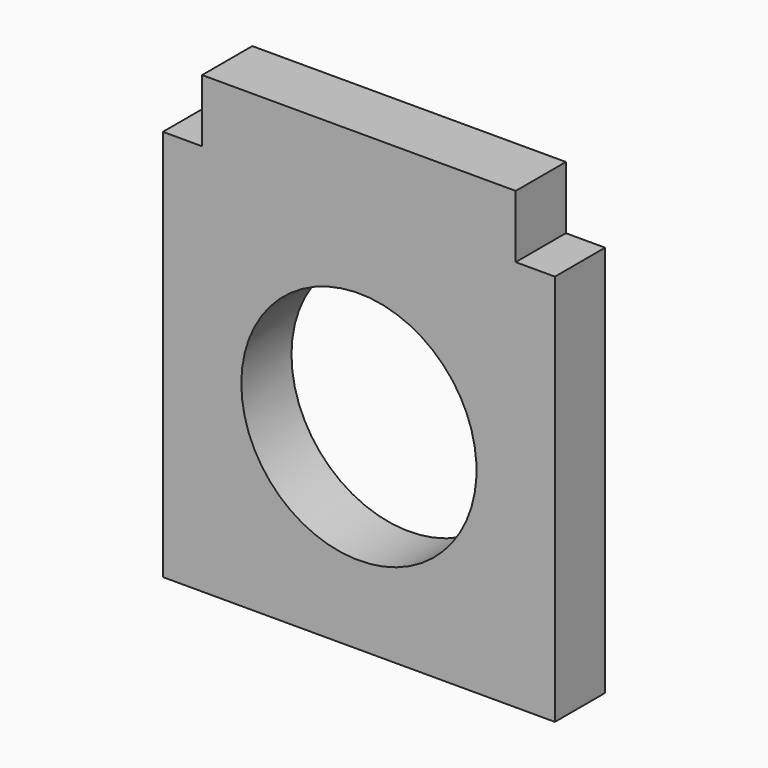
from build123d import *

# Parameters (mm, degrees)
F0_W     = 10
F0_H     = 4
F1_DEPTH = 4
F3_DEPTH = 25


with BuildPart() as f1:
    # F0 (on Front) → F1 (new body)
    with BuildSketch(Plane.XZ):
        Polygon((-12.5, 12.5), (-12.5, -12.5), (12.5, -12.5), (12.5, 12.5), (10, 12.5), (0, 12.5), (-10, 12.5), align=None)
        with Locations((-5, 14.5)):
            Rectangle(F0_W, F0_H)
        with Locations((5, 14.5)):
            Rectangle(F0_W, F0_H)
    extrude(amount=F1_DEPTH)

    # F2 (on face) → F3 (cut)
    with BuildSketch(Plane.XZ.offset(4)):
        with BuildLine():
            Line((-7.5, 0), (7.5, 0))
            ThreePointArc((7.5, 0), (0, 7.5), (-7.5, 0))
        make_face()
        with BuildLine():
            ThreePointArc((-7.5, 0), (0, -7.5), (7.5, 0))
            Line((7.5, 0), (-7.5, 0))
        make_face()
    extrude(amount=-F3_DEPTH, mode=Mode.SUBTRACT)


solid = f1.part
